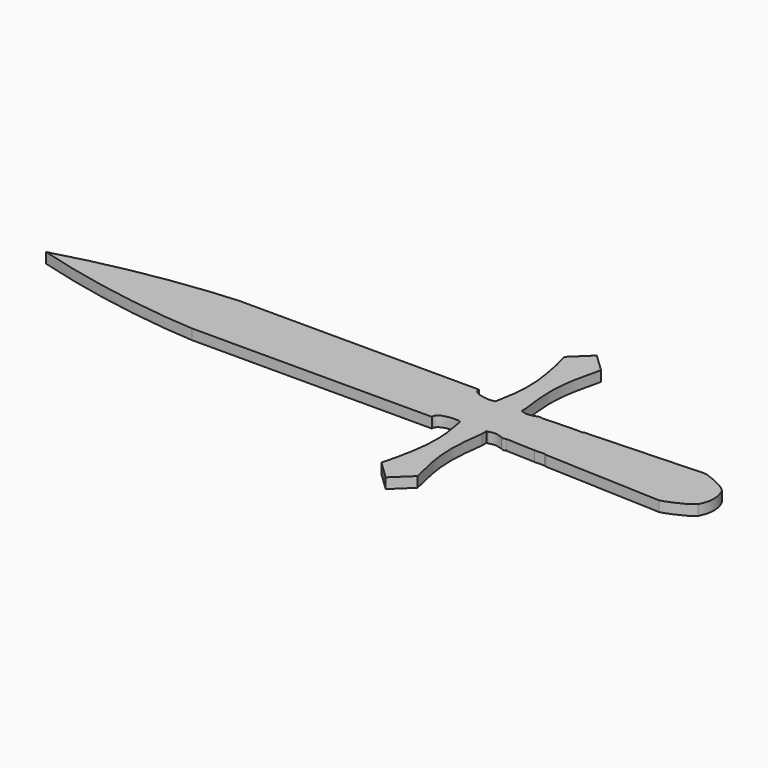
from build123d import *

# Parameters (mm, degrees)
F1_DEPTH = 2


with BuildPart() as f1:
    # F0 (on Top) → F1 (new body)
    with BuildSketch(Plane.XY):
        with BuildLine():
            add(Edge.make_bspline(
                [(8.6748898029, 5.6916326284), (8.6487335954, 5.4451622036), (8.9050139712, 4.6956597308), (10.3461055042, 4.2046193666), (12.0542033217, 4.0215565005), (12.7291959786, 4.1737857422), (13.0162881687, 4.2385328561)],
                knots=[0.1411262008, 0.1411262008, 0.1411262008, 0.1411262008, 0.3215319836, 0.5569055766, 0.8115402483, 1, 1, 1, 1], degree=3))
            Line((8.6748898029, 5.6916326284), (-37.6118458807, 5.7461173274))
            add(Edge.make_bspline(
                [(-37.6118458807, 5.7461173274), (-40.5734612696, 5.5933859506), (-46.0074223206, 5.0041541834), (-53.904567956, 3.8883420379), (-60.4349233984, 2.5040791618), (-65.0644995905, 1.4725007887), (-68.5725675359, 0.5033486653), (-70.3945532441, 0)],
                knots=[0.3193249377, 0.3193249377, 0.3193249377, 0.3193249377, 0.4741629094, 0.6243096755, 0.7604296541, 0.8755743181, 1, 1, 1, 1], degree=3))
            add(Edge.make_bspline(
                [(-37.6118458807, -5.7461173274), (-40.5734612696, -5.5933859506), (-46.0074223206, -5.0041541834), (-53.904567956, -3.8883420379), (-60.4349233984, -2.5040791618), (-65.0644995905, -1.4725007887), (-68.5725675359, -0.5033486653), (-70.3945532441, 0)],
                knots=[0.3193249377, 0.3193249377, 0.3193249377, 0.3193249377, 0.4741629094, 0.6243096755, 0.7604296541, 0.8755743181, 1, 1, 1, 1], degree=3))
            Line((-37.6118458807, -5.7461173274), (8.6748898029, -5.6916326284))
            add(Edge.make_bspline(
                [(8.6748898029, -5.6916326284), (8.6487335954, -5.4451622036), (8.9050139712, -4.6956597308), (10.3461055042, -4.2046193666), (12.0542033217, -4.0215565005), (12.7291959786, -4.1737857422), (13.0162881687, -4.2385328561)],
                knots=[0.1411262008, 0.1411262008, 0.1411262008, 0.1411262008, 0.3215319836, 0.5569055766, 0.8115402483, 1, 1, 1, 1], degree=3))
            add(Edge.make_bspline(
                [(13.0162881687, -4.2385328561), (13.5212335751, -6.8386267952), (14.5412711945, -12.0910631935), (12.3149675559, -21.397985611), (12.0986721053, -21.9763078704), (12.0552927256, -22.0922939479)],
                knots=[0, 0, 0, 0, 0.4393662274, 0.887561457, 1, 1, 1, 1], degree=3))
            Line((12.0552927256, -22.0922939479), (15.5880060047, -25.4827160388))
            Line((15.5880060047, -25.4827160388), (19.0819334239, -22.1619550139))
            add(Edge.make_bspline(
                [(19.0819334239, -22.1619550139), (18.6267322874, -20.294252499), (17.7386984759, -16.6506258682), (17.2606082512, -11.5156236051), (17.7756044656, -7.4243914642), (18.0465597659, -5.2718687803)],
                knots=[0, 0, 0, 0, 0.3326029965, 0.6488619712, 1, 1, 1, 1], degree=3))
            Line((18.0465597659, -5.2718687803), (18.0465597659, -4.1968291625))
            Line((18.0465597659, -4.1968291625), (18.2820949703, -4.1968291625))
            add(Edge.make_bspline(
                [(18.2820949703, -4.1968291625), (18.6553641024, -4.0763285269), (19.4680558232, -3.8139712612), (20.4982628837, -4.1457607251), (21.0552960634, -4.3251593597)],
                knots=[0, 0, 0, 0, 0.4592997844, 1, 1, 1, 1], degree=3))
            add(Edge.make_bspline(
                [(21.0552960634, -4.3251593597), (21.2135892272, -4.39182334), (21.5216440654, -4.5215583278), (21.8009874785, -4.3894057062), (21.9367910177, -4.3251593597)],
                knots=[0, 0, 0, 0, 0.5138473549, 1, 1, 1, 1], degree=3))
            Line((21.9367910177, -4.3251593597), (27.6336535588, -4.5601242409))
            add(Edge.make_bspline(
                [(27.6336535588, -4.5601242409), (28.2535762385, -4.5515479471), (28.8568336912, -4.5327320205), (29.4600911438, -4.5139160939)],
                knots=[0.7364720785, 0.7364720785, 0.7364720785, 0.7364720785, 1, 1, 1, 1], degree=3))
            add(Edge.make_bspline(
                [(29.4600911438, -4.5139160939), (29.602363452, -4.5612346279), (29.7446357601, -4.6085531619), (29.9036486376, -4.6537493056)],
                knots=[0, 0, 0, 0, 0.1239808677, 0.1239808677, 0.1239808677, 0.1239808677], degree=3))
            Line((29.9036486376, -4.6537493056), (52.4882189929, -5.5852411315))
            add(Edge.make_bspline(
                [(52.4882189929, -5.5852411315), (53.3910924323, -5.3930971357), (56.8432596926, -3.8943500714), (57.5901163978, -3.1391917956), (57.8616410494, -2.8646490537)],
                knots=[0.1940769563, 0.1940769563, 0.1940769563, 0.1940769563, 0.7070013938, 1, 1, 1, 1], degree=3))
            ThreePointArc((57.8616410494, -2.8646490537), (58.6164496784, 0), (57.8616410494, 2.8646490537))
            add(Edge.make_bspline(
                [(52.4882189929, 5.5852411315), (53.3910924323, 5.3930971357), (56.8432596926, 3.8943500714), (57.5901163978, 3.1391917956), (57.8616410494, 2.8646490537)],
                knots=[0.1940769563, 0.1940769563, 0.1940769563, 0.1940769563, 0.7070013938, 1, 1, 1, 1], degree=3))
            Line((52.4882189929, 5.5852411315), (29.9036486376, 4.6537493056))
            add(Edge.make_bspline(
                [(29.4600911438, 4.5139160939), (29.602363452, 4.5612346279), (29.7446357601, 4.6085531619), (29.9036486376, 4.6537493056)],
                knots=[0, 0, 0, 0, 0.1239808677, 0.1239808677, 0.1239808677, 0.1239808677], degree=3))
            add(Edge.make_bspline(
                [(27.6336535588, 4.5601242409), (28.2535762385, 4.5515479471), (28.8568336912, 4.5327320205), (29.4600911438, 4.5139160939)],
                knots=[0.7364720785, 0.7364720785, 0.7364720785, 0.7364720785, 1, 1, 1, 1], degree=3))
            Line((27.6336535588, 4.5601242409), (21.9367910177, 4.3251593597))
            add(Edge.make_bspline(
                [(21.0552960634, 4.3251593597), (21.2135892272, 4.39182334), (21.5216440654, 4.5215583278), (21.8009874785, 4.3894057062), (21.9367910177, 4.3251593597)],
                knots=[0, 0, 0, 0, 0.5138473549, 1, 1, 1, 1], degree=3))
            add(Edge.make_bspline(
                [(18.2820949703, 4.1968291625), (18.6553641024, 4.0763285269), (19.4680558232, 3.8139712612), (20.4982628837, 4.1457607251), (21.0552960634, 4.3251593597)],
                knots=[0, 0, 0, 0, 0.4592997844, 1, 1, 1, 1], degree=3))
            Line((18.2820949703, 4.1968291625), (18.0465597659, 4.1968291625))
            Line((18.0465597659, 4.1968291625), (18.0465597659, 5.2718687803))
            add(Edge.make_bspline(
                [(19.0819334239, 22.1619550139), (18.6267322874, 20.294252499), (17.7386984759, 16.6506258682), (17.2606082512, 11.5156236051), (17.7756044656, 7.4243914642), (18.0465597659, 5.2718687803)],
                knots=[0, 0, 0, 0, 0.3326029965, 0.6488619712, 1, 1, 1, 1], degree=3))
            Line((19.0819334239, 22.1619550139), (15.5880060047, 25.4827160388))
            Line((15.5880060047, 25.4827160388), (12.0552927256, 22.0922939479))
            add(Edge.make_bspline(
                [(13.0162881687, 4.2385328561), (13.5212335751, 6.8386267952), (14.5412711945, 12.0910631935), (12.3149675559, 21.397985611), (12.0986721053, 21.9763078704), (12.0552927256, 22.0922939479)],
                knots=[0, 0, 0, 0, 0.4393662274, 0.887561457, 1, 1, 1, 1], degree=3))
        make_face()
    extrude(amount=F1_DEPTH)


solid = f1.part
